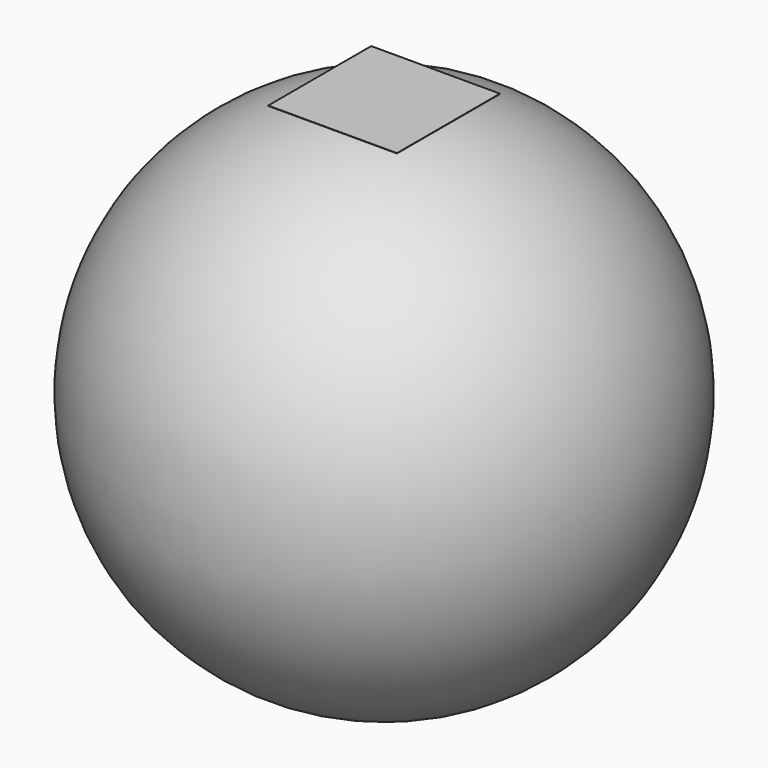
from build123d import *

# Parameters (mm, degrees)
F3_W     = 101.6
F3_H     = 101.6
F4_DEPTH = 0.254


with BuildPart() as f1:
    # F0 (on Top) → F1 (revolve)
    with BuildSketch(Plane.XY):
        with BuildLine():
            ThreePointArc((-203.2, 0), (0, -203.2), (203.2, 0))
            Line((203.2, 0), (-203.2, 0))
        make_face()
    revolve(axis=Axis((0, 0, 0), (1, 0, 0)))


with BuildPart() as f4:
    # F3 (on offset) → F4 (new body)
    with BuildSketch(Plane.XY.offset(203.2)):
        Rectangle(F3_W, F3_H)
    extrude(amount=F4_DEPTH)


solid = Compound([f1.part, f4.part])
